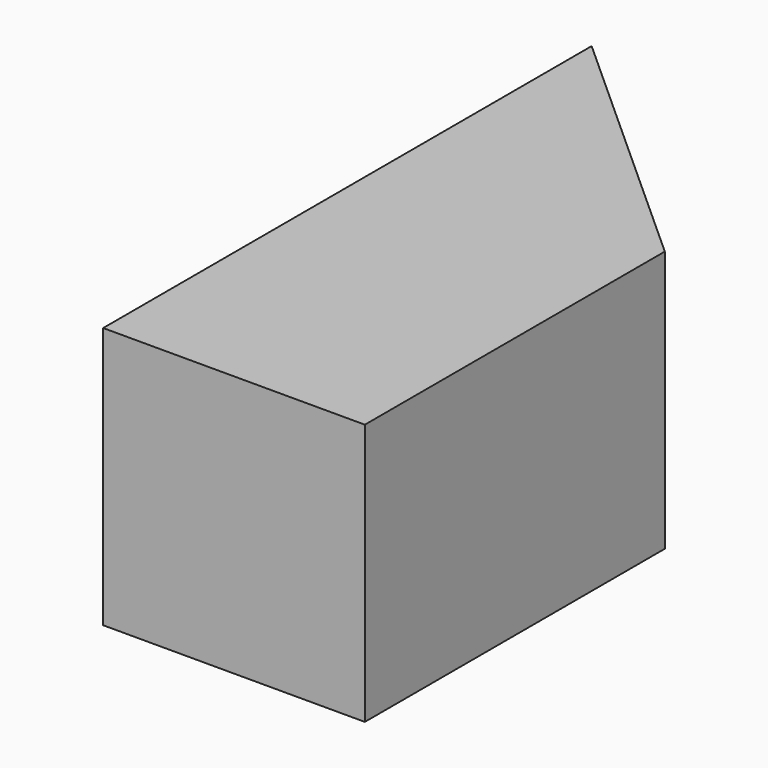
from build123d import *

# Parameters (mm, degrees)
F0_W     = 6
F0_H     = 6
F1_DEPTH = 14
F3_DEPTH = 6.001


with BuildPart() as f1:
    # F0 (on Front) → F1 (new body)
    with BuildSketch(Plane.XZ):
        Rectangle(F0_W, F0_H)
    extrude(amount=F1_DEPTH)

    # F2 (on face) → F3 (cut, through all)
    with BuildSketch(Plane.XY.offset(3)):
        Polygon((3, 0), (-3, 0), (3, -5.402424), align=None)
    extrude(amount=-F3_DEPTH, mode=Mode.SUBTRACT)


solid = f1.part
